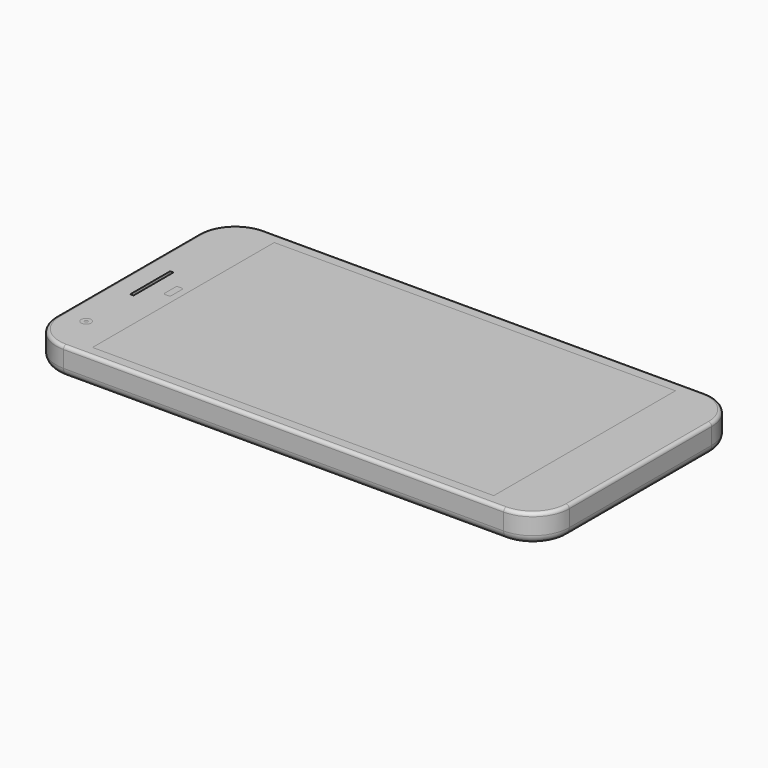
from build123d import *

# Parameters (mm, degrees)
F1_DEPTH  = 8.5
F2_W      = 121
F2_H      = 68.5
F3_DEPTH  = 1
F4_DEPTH  = 1
F2_R      = 1.5
F2_R_2    = 0.5
F5_DEPTH  = 1
F6_DEPTH  = 1
F7_R      = 7
F8_DEPTH  = 1
F9_DEPTH  = 1
F10_R     = 1
F11_R     = 2.5
F12_DEPTH = 2
F13_DEPTH = 1
F14_DEPTH = 1
F7_R_2    = 2.5
F15_DEPTH = 1
F16_DEPTH = 1
F7_R_3    = 2.25
F17_DEPTH = 1
F18_DEPTH = 1


with BuildPart() as f1:
    # F0 (on Top) → F1 (new body)
    with BuildSketch(Plane.XY):
        with BuildLine():
            ThreePointArc((77.35, 26.85), (74.128175, 34.628175), (66.35, 37.85))
            Line((66.35, 37.85), (-66.35, 37.85))
            ThreePointArc((-66.35, 37.85), (-74.128175, 34.628175), (-77.35, 26.85))
            Line((-77.35, 26.85), (-77.35, -26.85))
            ThreePointArc((-77.35, -26.85), (-74.128175, -34.628175), (-66.35, -37.85))
            Line((-66.35, -37.85), (66.35, -37.85))
            ThreePointArc((66.35, -37.85), (74.128175, -34.628175), (77.35, -26.85))
            Line((77.35, -26.85), (77.35, 26.85))
        make_face()
    extrude(amount=F1_DEPTH)

    # F2 (on face) → F3 (cut)
    with BuildSketch(Plane.XY.offset(8.5)):
        Rectangle(F2_W, F2_H)
    extrude(amount=-F3_DEPTH, mode=Mode.SUBTRACT)

    # F2 (on face) → F5 (cut)
    with BuildSketch(Plane.XY.offset(8.5)):
        with Locations((-70, -24.75)):
            Circle(F2_R)
        with Locations((-70, -24.75)):
            Circle(F2_R_2, mode=Mode.SUBTRACT)
    extrude(amount=-F5_DEPTH, mode=Mode.SUBTRACT)

    # F7 (on face) → F8 (cut)
    with BuildSketch(Plane(origin=(0, 0, 0), x_dir=(1, 0, 0), z_dir=(0, 0, -1))):
        with Locations((-36.35, 0)):
            Circle(F7_R)
    extrude(amount=-F8_DEPTH, mode=Mode.SUBTRACT)

    # F10
    f10_edges = [f1.edges().sort_by_distance(p)[0] for p in [
        (-77.35, 0, 8.5),
    ]]
    fillet(f10_edges, radius=F10_R)

    # F11
    f11_edges = [f1.edges().sort_by_distance(p)[0] for p in [
        (0, -37.85, 0),
    ]]
    fillet(f11_edges, radius=F11_R)

    # F2 (on face) → F12 (cut)
    with BuildSketch(Plane.XY.offset(8.5)):
        with BuildLine():
            ThreePointArc((-69.5, 7.3), (-69.558579, 7.441421), (-69.7, 7.5))
            Line((-69.7, 7.5), (-70.3, 7.5))
            ThreePointArc((-70.3, 7.5), (-70.441421, 7.441421), (-70.5, 7.3))
            Line((-70.5, 7.3), (-70.5, -7.3))
            ThreePointArc((-70.5, -7.3), (-70.441421, -7.441421), (-70.3, -7.5))
            Line((-70.3, -7.5), (-69.7, -7.5))
            ThreePointArc((-69.7, -7.5), (-69.558579, -7.441421), (-69.5, -7.3))
            Line((-69.5, -7.3), (-69.5, 7.3))
        make_face()
    extrude(amount=-F12_DEPTH, mode=Mode.SUBTRACT)

    # F2 (on face) → F13 (cut)
    with BuildSketch(Plane.XY.offset(8.5)):
        with BuildLine():
            Line((-64, -2.5), (-63, -2.5))
            ThreePointArc((-63, -2.5), (-62.646447, -2.353553), (-62.5, -2))
            Line((-62.5, -2), (-62.5, 2))
            ThreePointArc((-62.5, 2), (-62.646447, 2.353553), (-63, 2.5))
            Line((-63, 2.5), (-64, 2.5))
            ThreePointArc((-64, 2.5), (-64.353553, 2.353553), (-64.5, 2))
            Line((-64.5, 2), (-64.5, -2))
            ThreePointArc((-64.5, -2), (-64.353553, -2.353553), (-64, -2.5))
        make_face()
    extrude(amount=-F13_DEPTH, mode=Mode.SUBTRACT)

    # F7 (on face) → F15 (cut)
    with BuildSketch(Plane(origin=(0, 0, 0), x_dir=(1, 0, 0), z_dir=(0, 0, -1))):
        with Locations((-65.35, -25.35)):
            Circle(F7_R_2)
    extrude(amount=-F15_DEPTH, mode=Mode.SUBTRACT)

    # F7 (on face) → F17 (cut)
    with BuildSketch(Plane(origin=(0, 0, 0), x_dir=(1, 0, 0), z_dir=(0, 0, -1))):
        with Locations((-65.35, -15.85)):
            Circle(F7_R_3)
    extrude(amount=-F17_DEPTH, mode=Mode.SUBTRACT)


with BuildPart() as f4:
    # F2 (on face) → F4 (new body)
    with BuildSketch(Plane.XY.offset(8.5)):
        Rectangle(F2_W, F2_H)
    extrude(amount=-F4_DEPTH)


with BuildPart() as f6:
    # F2 (on face) → F6 (new body)
    with BuildSketch(Plane.XY.offset(8.5)):
        with Locations((-70, -24.75)):
            Circle(F2_R)
        with Locations((-70, -24.75)):
            Circle(F2_R_2, mode=Mode.SUBTRACT)
    extrude(amount=-F6_DEPTH)


with BuildPart() as f9:
    # F7 (on face) → F9 (new body)
    with BuildSketch(Plane(origin=(0, 0, 0), x_dir=(1, 0, 0), z_dir=(0, 0, -1))):
        with Locations((-36.35, 0)):
            Circle(F7_R)
    extrude(amount=-F9_DEPTH)


with BuildPart() as f14:
    # F13_face (on face) → F14 (new body)
    with BuildSketch(Plane(origin=(-63.5, 0, 7.5), x_dir=(1, 0, 0), z_dir=(0, 0, 1))):
        with BuildLine():
            Line((-0.5, -2.5), (0.5, -2.5))
            ThreePointArc((0.5, -2.5), (0.853553, -2.353553), (1, -2))
            Line((1, -2), (1, 2))
            ThreePointArc((1, 2), (0.853553, 2.353553), (0.5, 2.5))
            Line((0.5, 2.5), (-0.5, 2.5))
            ThreePointArc((-0.5, 2.5), (-0.853553, 2.353553), (-1, 2))
            Line((-1, 2), (-1, -2))
            ThreePointArc((-1, -2), (-0.853553, -2.353553), (-0.5, -2.5))
        make_face()
    extrude(amount=F14_DEPTH)


with BuildPart() as f16:
    # F7 (on face) → F16 (new body)
    with BuildSketch(Plane(origin=(0, 0, 0), x_dir=(1, 0, 0), z_dir=(0, 0, -1))):
        with Locations((-65.35, -25.35)):
            Circle(F7_R_2)
    extrude(amount=-F16_DEPTH)


with BuildPart() as f18:
    # F7 (on face) → F18 (new body)
    with BuildSketch(Plane(origin=(0, 0, 0), x_dir=(1, 0, 0), z_dir=(0, 0, -1))):
        with Locations((-65.35, -15.85)):
            Circle(F7_R_3)
    extrude(amount=-F18_DEPTH)


solid = Compound([f1.part, f4.part, f6.part, f9.part, f14.part, f16.part, f18.part])
